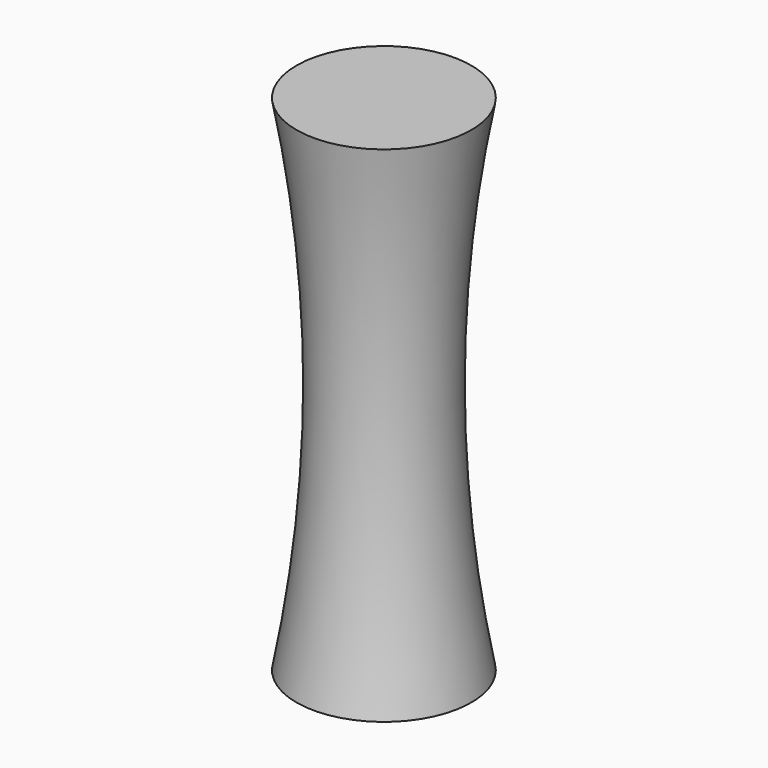
from build123d import *


with BuildPart() as f1:
    # F0 (on Front) → F1 (revolve)
    with BuildSketch(Plane.XZ):
        with BuildLine():
            ThreePointArc((-16.412292, 103.896886), (-9.465006, 31.653902), (-16.412292, -40.589083))
            Line((-16.412292, -40.589083), (8.645328, -40.589083))
            Line((8.645328, -40.589083), (8.645328, 103.896886))
            Line((8.645328, 103.896886), (-16.412292, 103.896886))
        make_face()
    revolve(axis=Axis((8.645328, 0, 31.653902), (0, 0, 1)))


solid = f1.part
